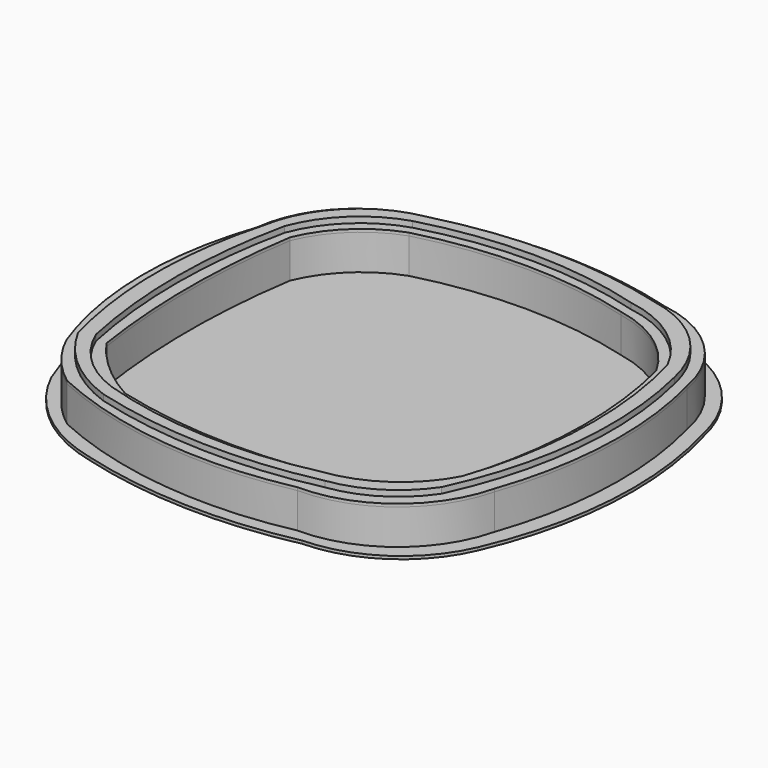
from build123d import *

# Parameters (mm, degrees)
F1_DEPTH = 1
F2_DEPTH = 13
F4_DEPTH = 1
F5_DEPTH = 16
F6_DEPTH = 14


with BuildPart() as f1:
    # F0 (on Top) → F1 (new body)
    with BuildSketch(Plane.XY):
        with BuildLine():
            ThreePointArc((59.241718498, 31.4980478948), (47.2718109407, 44.9694565093), (30.7353396248, 52.1320435704))
            ThreePointArc((30.7353396248, 52.1320435704), (-5.6065658881, 57.1708070667), (-41.9993289293, 52.5135512113))
            ThreePointArc((-41.9993289293, 52.5135512113), (-55.8161629521, 43.9987881683), (-64.993871567, 30.6131332843))
            ThreePointArc((-64.993871567, 30.6131332843), (-68.012749055, -8.5465916973), (-65.016971081, -47.7080905993))
            ThreePointArc((-65.016971081, -47.7080905993), (-55.146123579, -58.6409058181), (-43.1026914387, -67.1212254641))
            ThreePointArc((-43.1026914387, -67.1212254641), (-7.3022161318, -72.4009806656), (28.7911297186, -69.7894231797))
            ThreePointArc((28.7911297186, -69.7894231797), (44.6553124965, -62.8308128793), (56.5138447034, -50.2026789545))
            ThreePointArc((56.5138447034, -50.2026789545), (63.6568849848, -9.5452717652), (59.241718498, 31.4980478948))
        make_face()
    extrude(amount=F1_DEPTH)


with BuildPart() as f1b:
    # F0 (on Top) → F1, piece 2 (new body)
    with BuildSketch(Plane.XY):
        with BuildLine():
            ThreePointArc((-79.7844902593, -52.7222187703), (-64.725538026, -71.6812413028), (-42.9407283664, -82.2471603751))
            ThreePointArc((-42.9407283664, -82.2471603751), (-5.9763551362, -87.8254175939), (31.2538333237, -84.4497829676))
            ThreePointArc((31.2538333237, -84.4497829676), (54.5785960228, -77.049423789), (70.1976952065, -58.2118652521))
            ThreePointArc((70.1976952065, -58.2118652521), (80.8452236924, -14.5577165172), (76.1438687521, 30.1295504205))
            ThreePointArc((76.1438687521, 30.1295504205), (62.3220816654, 54.8802943402), (36.6843390036, 66.9777020812))
            ThreePointArc((36.6843390036, 66.9777020812), (-2.7540884887, 72.2931317526), (-42.2841752181, 67.7088544027))
            ThreePointArc((-42.2841752181, 67.7088544027), (-66.7191215289, 57.1759882412), (-79.8892974854, 34.055557102))
            ThreePointArc((-79.8892974854, 34.055557102), (-88.2832183374, -9.3435320156), (-79.7844902593, -52.7222187703))
        make_face()
        with BuildLine():
            ThreePointArc((-42.3634034562, 62.5190104934), (-2.25975641, 67.63698517), (37.7613445552, 61.9091890205))
            ThreePointArc((37.7613445552, 61.9091890205), (59.5964644585, 51.2350996863), (71.128377128, 29.8406229577))
            ThreePointArc((71.128377128, 29.8406229577), (75.484458168, -9.59693098), (68.0952370167, -48.5802032053))
            ThreePointArc((68.0952370167, -48.5802032053), (52.9290630596, -71.8885897937), (26.5700033258, -80.748256142))
            ThreePointArc((26.5700033258, -80.748256142), (-17.3240060533, -82.8069392328), (-59.6779821437, -71.0995507632))
            ThreePointArc((-59.6779821437, -71.0995507632), (-68.2660617331, -62.862827207), (-74.5685153124, -52.7693736426))
            ThreePointArc((-74.5685153124, -52.7693736426), (-82.1538930741, -11.6451917888), (-75.4686072469, 29.6348668635))
            ThreePointArc((-75.4686072469, 29.6348668635), (-64.6356961201, 51.8350794603), (-42.3634034562, 62.5190104934))
        make_face(mode=Mode.SUBTRACT)
    extrude(amount=F1_DEPTH)


with BuildPart() as f2:
    # F0 (on Top) → F2 (new body)
    with BuildSketch(Plane.XY):
        with BuildLine():
            ThreePointArc((71.128377128, 29.8406229577), (59.5964644585, 51.2350996863), (37.7613445552, 61.9091890205))
            ThreePointArc((37.7613445552, 61.9091890205), (-2.25975641, 67.63698517), (-42.3634034562, 62.5190104934))
            ThreePointArc((-42.3634034562, 62.5190104934), (-64.6356961201, 51.8350794603), (-75.4686072469, 29.6348668635))
            ThreePointArc((-75.4686072469, 29.6348668635), (-82.1538930741, -11.6451917888), (-74.5685153124, -52.7693736426))
            ThreePointArc((-74.5685153124, -52.7693736426), (-68.2660617331, -62.862827207), (-59.6779821437, -71.0995507632))
            ThreePointArc((-59.6779821437, -71.0995507632), (-17.3240060533, -82.8069392328), (26.5700033258, -80.748256142))
            ThreePointArc((26.5700033258, -80.748256142), (52.9290630596, -71.8885897937), (68.0952370167, -48.5802032053))
            ThreePointArc((68.0952370167, -48.5802032053), (75.484458168, -9.59693098), (71.128377128, 29.8406229577))
        make_face()
        with BuildLine():
            ThreePointArc((36.670516514, 59.1158246498), (36.6774278039, 59.1139242988), (36.6843390036, 59.1120236201))
            ThreePointArc((36.6843390036, 59.1120236201), (56.9082955544, 48.5351110773), (67.7962886086, 28.4769181188))
            ThreePointArc((67.7962886086, 28.4769181188), (70.8886517287, -16.343828861), (58.9397102594, -59.653006494))
            ThreePointArc((58.9397102594, -59.653006494), (47.4707149296, -70.7683854505), (32.4563346803, -76.2142911553))
            ThreePointArc((32.4563346803, -76.2142911553), (-6.3204928303, -79.8398856249), (-44.8438301682, -74.1180181503))
            ThreePointArc((-44.8438301682, -74.1180181503), (-60.7061798671, -65.035148973), (-72.2101135865, -50.8304962338))
            ThreePointArc((-72.2101135865, -50.8304962338), (-77.7017744017, -11.1904446131), (-72.4109932776, 28.4769181188))
            ThreePointArc((-72.4109932776, 28.4769181188), (-61.8986497329, 49.0310370405), (-41.4118235242, 59.6739277825))
            ThreePointArc((-41.4118235242, 59.6739277825), (-2.3340062975, 64.5220642937), (36.670516514, 59.1158246498))
        make_face(mode=Mode.SUBTRACT)
    extrude(amount=F2_DEPTH)


with BuildPart() as f2b:
    # F0 (on Top) → F2, piece 2 (new body)
    with BuildSketch(Plane.XY):
        with BuildLine():
            ThreePointArc((61.9031153619, 32.8825935721), (49.5862863319, 47.584873445), (31.8615730794, 54.9126187277))
            ThreePointArc((31.8615730794, 54.9126187277), (-5.5118466472, 60.3209541009), (-42.9472585163, 55.3598522316))
            ThreePointArc((-42.9472585163, 55.3598522316), (-58.0974367213, 46.4463701789), (-67.7638641348, 31.7651494188))
            ThreePointArc((-67.7638641348, 31.7651494188), (-72.1094986143, -8.2597549403), (-68.0010179482, -48.3096974446))
            ThreePointArc((-68.0010179482, -48.3096974446), (-59.2047908572, -61.1888700809), (-45.9289151929, -69.3740899422))
            ThreePointArc((-45.9289151929, -69.3740899422), (-9.0274634677, -75.9622837661), (28.3236707886, -72.7977605702))
            ThreePointArc((28.3236707886, -72.7977605702), (46.4270614526, -65.8766928279), (59.2780367127, -51.3685445281))
            ThreePointArc((59.2780367127, -51.3685445281), (66.9373371019, -9.4407264798), (61.9031153619, 32.8825935721))
        make_face()
        with BuildLine():
            ThreePointArc((-41.9993289293, 52.5135512113), (-5.6065658881, 57.1708070667), (30.7353396248, 52.1320435704))
            ThreePointArc((30.7353396248, 52.1320435704), (47.2718109407, 44.9694565093), (59.241718498, 31.4980478948))
            ThreePointArc((59.241718498, 31.4980478948), (63.6568849848, -9.5452717652), (56.5138447034, -50.2026789545))
            ThreePointArc((56.5138447034, -50.2026789545), (44.6553124965, -62.8308128793), (28.7911297186, -69.7894231797))
            ThreePointArc((28.7911297186, -69.7894231797), (-7.3022161318, -72.4009806656), (-43.1026914387, -67.1212254641))
            ThreePointArc((-43.1026914387, -67.1212254641), (-55.146123579, -58.6409058181), (-65.016971081, -47.7080905993))
            ThreePointArc((-65.016971081, -47.7080905993), (-68.012749055, -8.5465916973), (-64.993871567, 30.6131332843))
            ThreePointArc((-64.993871567, 30.6131332843), (-55.8161629521, 43.9987881683), (-41.9993289293, 52.5135512113))
        make_face(mode=Mode.SUBTRACT)
    extrude(amount=F2_DEPTH)


with BuildPart() as f4:
    # F4 (new): a face of the model
    f4_faces = [f2.part.faces().sort_by_distance(p)[0] for p in [
        (51.5904404497, -70.1605829166, 13),
    ]]
    extrude(f4_faces, amount=F4_DEPTH)


with BuildPart() as f4b:
    # F4#2 (new): a face of the model
    f4_2_faces = [f2b.part.faces().sort_by_distance(p)[0] for p in [
        (48.4339915121, 46.0135310018, 13),
    ]]
    extrude(f4_2_faces, amount=F4_DEPTH)


with BuildPart() as f5:
    # F0 (on Top) → F5 (new body)
    with BuildSketch(Plane.XY):
        with BuildLine():
            ThreePointArc((67.7962886086, 28.4769181188), (56.9082955544, 48.5351110773), (36.6843390036, 59.1120236201))
            ThreePointArc((36.6843390036, 59.1120236201), (36.6774278039, 59.1139242988), (36.670516514, 59.1158246498))
            ThreePointArc((36.670516514, 59.1158246498), (-2.3340062975, 64.5220642937), (-41.4118235242, 59.6739277825))
            ThreePointArc((-41.4118235242, 59.6739277825), (-61.8986497329, 49.0310370405), (-72.4109932776, 28.4769181188))
            ThreePointArc((-72.4109932776, 28.4769181188), (-77.7017744017, -11.1904446131), (-72.2101135865, -50.8304962338))
            ThreePointArc((-72.2101135865, -50.8304962338), (-60.7061798671, -65.035148973), (-44.8438301682, -74.1180181503))
            ThreePointArc((-44.8438301682, -74.1180181503), (-6.3204928303, -79.8398856249), (32.4563346803, -76.2142911553))
            ThreePointArc((32.4563346803, -76.2142911553), (47.4707149296, -70.7683854505), (58.9397102594, -59.653006494))
            ThreePointArc((58.9397102594, -59.653006494), (70.8886517287, -16.343828861), (67.7962886086, 28.4769181188))
        make_face()
        with BuildLine():
            ThreePointArc((-42.9472585163, 55.3598522316), (-5.5118466472, 60.3209541009), (31.8615730794, 54.9126187277))
            ThreePointArc((31.8615730794, 54.9126187277), (49.5862863319, 47.584873445), (61.9031153619, 32.8825935721))
            ThreePointArc((61.9031153619, 32.8825935721), (66.9373371019, -9.4407264798), (59.2780367127, -51.3685445281))
            ThreePointArc((59.2780367127, -51.3685445281), (46.4270614526, -65.8766928279), (28.3236707886, -72.7977605702))
            ThreePointArc((28.3236707886, -72.7977605702), (-9.0274634677, -75.9622837661), (-45.9289151929, -69.3740899422))
            ThreePointArc((-45.9289151929, -69.3740899422), (-59.2047908572, -61.1888700809), (-68.0010179482, -48.3096974446))
            ThreePointArc((-68.0010179482, -48.3096974446), (-72.1094986143, -8.2597549403), (-67.7638641348, 31.7651494188))
            ThreePointArc((-67.7638641348, 31.7651494188), (-58.0974367213, 46.4463701789), (-42.9472585163, 55.3598522316))
        make_face(mode=Mode.SUBTRACT)
    extrude(amount=F5_DEPTH)

    # F6 (cut): a face of the model
    f6_faces = [f5.faces().sort_by_distance(p)[0] for p in [
        (55.4510541111, 47.0551872577, 0),
    ]]
    extrude(f6_faces, amount=-F6_DEPTH, mode=Mode.SUBTRACT)


solid = Compound([f1.part, f1b.part, f2.part, f2b.part, f4.part, f4b.part, f5.part])
